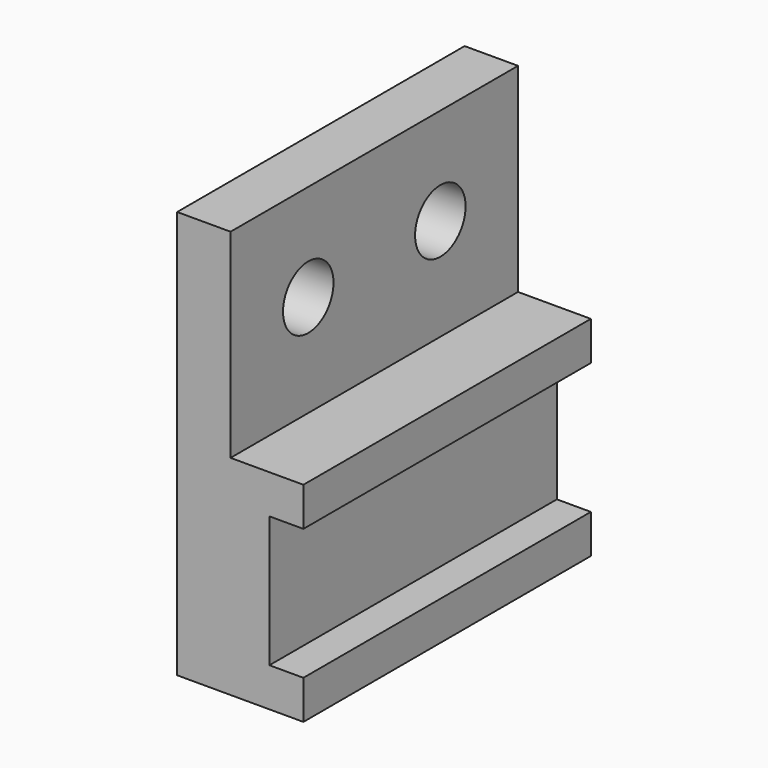
from build123d import *

# Parameters (mm, degrees)
F1_DEPTH = 117.475
F2_R     = 10.31875
F2_R_2   = 10.3251
F3_DEPTH = 22.352


with BuildPart() as f1:
    # F0 (on Front) → F1 (new body)
    with BuildSketch(Plane.XZ):
        Polygon((23.024566, 48.779685), (10.324566, 48.779685), (10.324566, 113.867185), (-7.137934, 113.867185), (-7.137934, 48.779685), (-7.137934, -19.482815), (23.024566, -19.482815), (34.137066, -19.482815), (34.137066, -6.782815), (23.024566, -6.782815), (23.024566, 36.079685), (34.137066, 36.079685), (34.137066, 48.779685), align=None)
    extrude(amount=-F1_DEPTH)

    # F2 (on face) → F3 (cut)
    with BuildSketch(Plane.YZ.offset(10.324566)):
        with Locations((31.75, 82.117185)):
            Circle(F2_R)
        with Locations((85.725, 82.129885)):
            Circle(F2_R_2)
    extrude(amount=-F3_DEPTH, mode=Mode.SUBTRACT)


solid = f1.part
